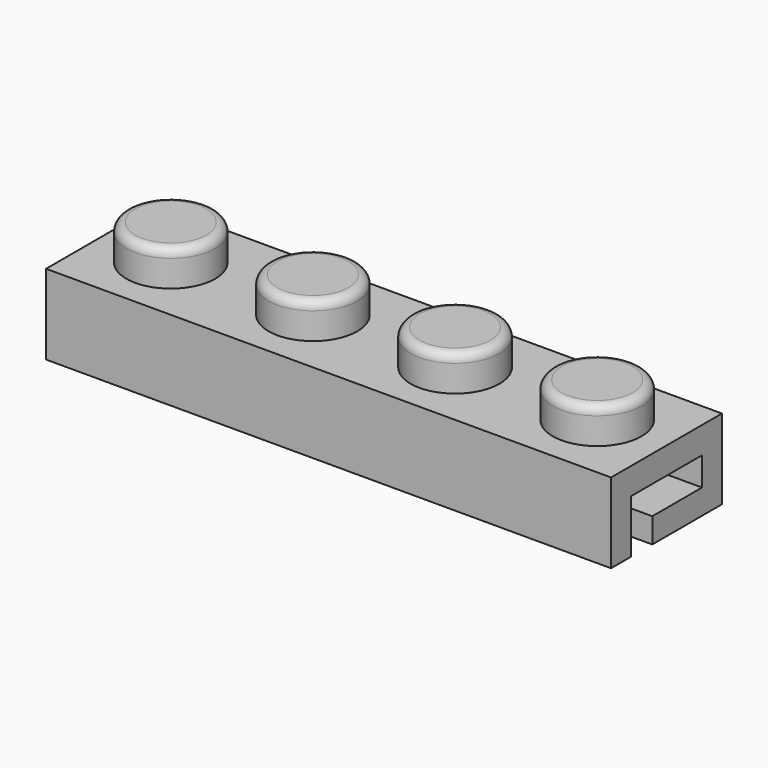
from build123d import *

# Parameters (mm, degrees)
SKETCH001_W  = 31.8
SKETCH001_H  = 7.8
PAD_DEPTH    = 1.5
SKETCH002_R  = 2.5
PAD001_DEPTH = 2
FILLET_R     = 0.5
PAD002_DEPTH = 4.5
SKETCH004_W  = 5
SKETCH004_H  = 1.6
POCKET_DEPTH = 100


with BuildPart() as part:
    # Sketch001 → Pad (new body)
    with BuildSketch(Plane.XY):
        with Locations((16, 4)):
            Rectangle(SKETCH001_W, SKETCH001_H)
    extrude(amount=-PAD_DEPTH)

    # Sketch002 → Pad001 (join)
    with BuildSketch(Plane.XY):
        with Locations((4, 4)):
            Circle(SKETCH002_R)
        with Locations((12, 4)):
            Circle(SKETCH002_R)
        with Locations((20, 4)):
            Circle(SKETCH002_R)
        with Locations((28, 4)):
            Circle(SKETCH002_R)
    extrude(amount=PAD001_DEPTH)

    # Fillet
    fillet_edges = [part.edges().sort_by_distance(p)[0] for p in [
        (1.5, 4, 2),
        (9.5, 4, 2),
        (17.5, 4, 2),
        (25.5, 4, 2),
    ]]
    fillet(fillet_edges, radius=FILLET_R)

    # Sketch003 → Pad002 (join)
    with BuildSketch(Plane.XY):
        Polygon((0.1, 7.9), (31.9, 7.9), (31.9, 3), (29.9, 3), (29.9, 6.5), (17, 6.5), (17, 3), (15, 3), (15, 6.5), (2.1, 6.5), (2.1, 3), (0.1, 3), align=None)
        Polygon((0.1, 0.1), (0.1, 1.5), (7.05, 1.5), (7.05, 5), (9.05, 5), (9.05, 1.5), (22.95, 1.5), (22.95, 5), (24.95, 5), (24.95, 1.5), (31.9, 1.5), (31.9, 0.1), align=None)
    extrude(amount=-PAD002_DEPTH)

    # Sketch004 → Pocket (cut)
    with BuildSketch(Plane.YZ):
        with Locations((4, -2.3)):
            Rectangle(SKETCH004_W, SKETCH004_H)
    extrude(amount=POCKET_DEPTH, mode=Mode.SUBTRACT)


solid = part.part
